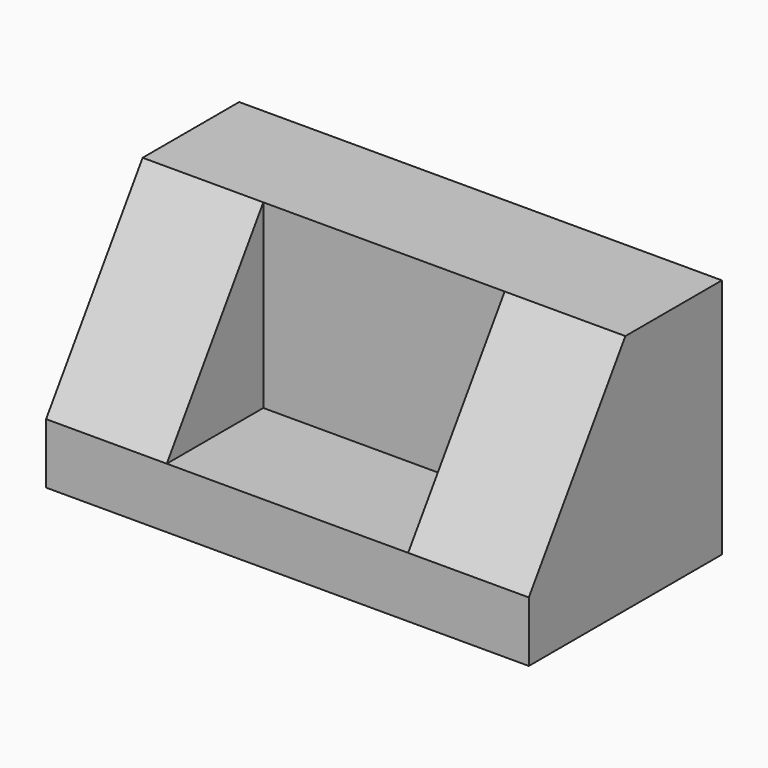
from build123d import *

# Parameters (mm, degrees)
F0_W     = 101.6
F0_H     = 50.8
F1_DEPTH = 25.4
F2_W     = 101.6
F2_H     = 101.6
F3_DEPTH = 50.8
F5_DEPTH = 50.8
F7_DEPTH = 50.8


with BuildPart() as f1:
    # F0 (on Top) → F1 (new body)
    with BuildSketch(Plane.XY):
        with Locations((-50.8, 18.868571)):
            Rectangle(F0_W, F0_H)
    extrude(amount=F1_DEPTH)

    # F2 (on face) → F3 (join)
    with BuildSketch(Plane(origin=(0, 44.268571, 0), x_dir=(-1, 0, 0), z_dir=(0, 1, 0))):
        with Locations((50.8, 50.8)):
            Rectangle(F2_W, F2_H)
    extrude(amount=F3_DEPTH)

    # F4 (on face) → F5 (join)
    with BuildSketch(Plane.YZ):
        Polygon((44.268571, 101.6), (-6.531429, 25.4), (44.268571, 25.4), align=None)
        Polygon((-6.531429, 0), (95.068571, 0), (95.068571, 101.6), (44.268571, 101.6), (44.268571, 25.4), (-6.531429, 25.4), align=None)
    extrude(amount=F5_DEPTH)

    # F6 (on face) → F7 (join)
    with BuildSketch(Plane(origin=(-101.6, 0, 0), x_dir=(0, -1, 0), z_dir=(-1, 0, 0))):
        Polygon((-95.068571, 101.6), (-95.068571, 0), (6.531429, 0), (6.531429, 25.4), (-44.268571, 25.4), (-44.268571, 101.6), align=None)
        Polygon((-44.268571, 25.4), (6.531429, 25.4), (-44.268571, 101.6), align=None)
    extrude(amount=F7_DEPTH)


solid = f1.part
